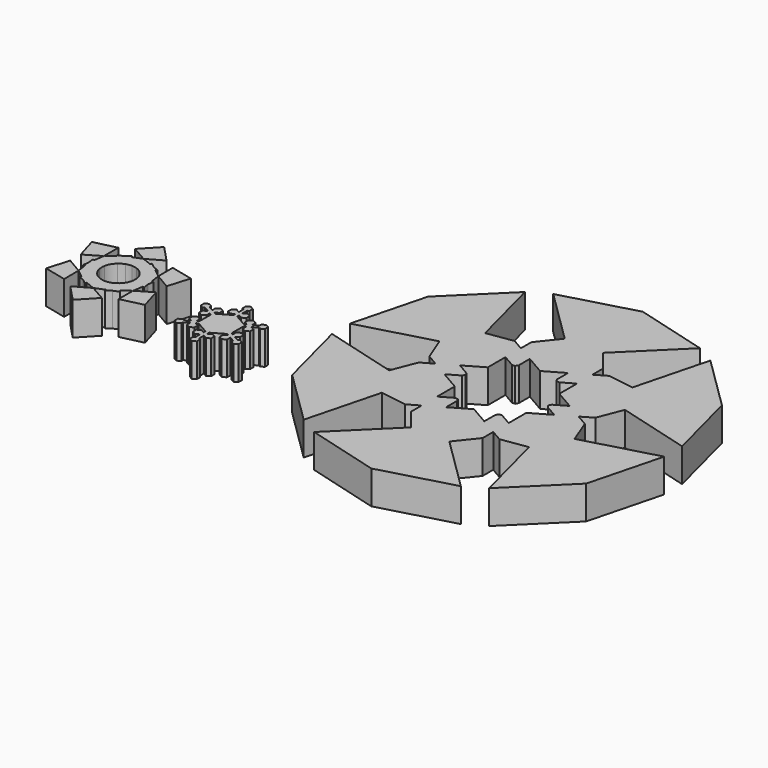
from build123d import *

# Parameters (mm, degrees)
F1_DEPTH = 600


with BuildPart() as f1:
    # F0 (on Top) → F1 (new body)
    with BuildSketch(Plane.XY):
        Polygon((558.4310335719, 102.5922032754), (525.4325270653, 83.5405066609), (525.4325270653, -101.0135561228), (558.4310335719, -120.0652527372), (558.4310335719, -15.2652638737), (558.4310335719, 60.4079625359), align=None)
        Polygon((492.4340205586, 102.5922032754), (525.4325270653, 83.5405066609), (558.4310335719, 102.5922032754), (670.5537929805, 167.3263086022), (525.4325270653, 251.1121105435), (380.3112611501, 167.3263086022), align=None)
        Polygon((525.4325270653, -101.0135561228), (525.4325270653, 83.5405066609), (492.4340205586, 102.5922032754), (492.4340205586, 60.4079625359), (492.4340205586, -15.2652638737), (492.4340205586, -120.0652527372), align=None)
        Polygon((558.4310335719, -120.0652527372), (525.4325270653, -101.0135561228), (525.4325270653, -246.8340396881), (588.5746486451, -210.3789187968), (588.5746486451, -137.4686770141), align=None)
        Polygon((525.4325270653, -246.8340396881), (525.4325270653, -101.0135561228), (492.4340205586, -120.0652527372), (462.2904054854, -137.4686770141), (462.2904054854, -210.3789187968), align=None)
        Polygon((525.4325270653, 251.1121105435), (670.5537929805, 167.3263086022), (670.5537929805, 334.8979124848), (525.4325270653, 418.6837144261), align=None)
        Polygon((670.5537929805, 334.8979124848), (670.5537929805, 167.3263086022), (782.676552389, 232.060413929), (815.6750588957, 251.1121105435), (815.6750588957, 289.2155037724), (815.6750588957, 418.6837144261), align=None)
        Polygon((623.9659700289, 98.2445757406), (558.4310335719, 60.4079625359), (558.4310335719, -15.2652638737), (623.9659700289, -53.1018770785), (689.5009064859, -15.2652638737), (689.5009064859, 60.4079625359), align=None)
        Polygon((268.1885017415, 232.060413929), (380.3112611501, 167.3263086022), (380.3112611501, 334.8979124848), (235.1899952349, 418.6837144261), (235.1899952349, 289.2155037724), (235.1899952349, 251.1121105435), align=None)
        Polygon((380.3112611501, 334.8979124848), (380.3112611501, 167.3263086022), (525.4325270653, 251.1121105435), (525.4325270653, 418.6837144261), align=None)
        Polygon((492.4340205586, -15.2652638737), (492.4340205586, 60.4079625359), (426.8990841016, 98.2445757406), (361.3641476446, 60.4079625359), (361.3641476446, -15.2652638737), (426.8990841016, -53.1018770785), align=None)
        Polygon((525.4325270653, 418.6837144261), (670.5537929805, 334.8979124848), (815.6750588957, 418.6837144261), (670.5537929805, 502.4695163674), align=None)
        Polygon((815.6750588957, 251.1121105435), (782.676552389, 232.060413929), (819.2091765089, 210.9682935593), (884.7441129659, 173.1316803545), (975.503565638, 120.7316859227), (975.503565638, 158.8350791517), align=None)
        Polygon((235.1899952349, 418.6837144261), (380.3112611501, 334.8979124848), (525.4325270653, 418.6837144261), (380.3112611501, 502.4695163674), align=None)
        Polygon((231.6558776217, 210.9682935593), (268.1885017415, 232.060413929), (235.1899952349, 251.1121105435), (75.3614884925, 158.8350791517), (75.3614884925, 120.7316859227), (166.1209411647, 173.1316803545), align=None)
        Polygon((525.4325270653, 586.2553183087), (525.4325270653, 418.6837144261), (670.5537929805, 502.4695163674), (670.5537929805, 670.0411202499), align=None)
        Polygon((380.3112611501, 502.4695163674), (525.4325270653, 418.6837144261), (525.4325270653, 586.2553183087), (380.3112611501, 670.0411202499), align=None)
        Polygon((670.5537929805, 502.4695163674), (815.6750588957, 418.6837144261), (815.6750588957, 548.1519250797), (815.6750588957, 586.2553183087), (782.676552389, 605.3070149231), (670.5537929805, 670.0411202499), align=None)
        Polygon((815.6750588957, 289.2155037724), (815.6750588957, 251.1121105435), (975.503565638, 158.8350791517), (1008.5020721447, 177.8867757661), (917.7426194725, 230.2867701979), (852.2076830155, 268.1233834027), align=None)
        Polygon((884.7441129659, 173.1316803545), (819.2091765089, 210.9682935593), (753.6742400518, 173.1316803545), (753.6742400518, 97.4584539449), (819.2091765089, 59.6218407402), (884.7441129659, 97.4584539449), align=None)
        Polygon((235.1899952349, 548.1519250797), (235.1899952349, 418.6837144261), (380.3112611501, 502.4695163674), (380.3112611501, 670.0411202499), (268.1885017415, 605.3070149231), (235.1899952349, 586.2553183087), align=None)
        Polygon((297.1908140787, 173.1316803545), (231.6558776217, 210.9682935593), (166.1209411647, 173.1316803545), (166.1209411647, 97.4584539449), (231.6558776217, 59.6218407402), (297.1908140787, 97.4584539449), align=None)
        Polygon((75.3614884925, 158.8350791517), (235.1899952349, 251.1121105435), (235.1899952349, 289.2155037724), (198.6573711151, 268.1233834027), (133.122434658, 230.2867701979), (42.3629819859, 177.8867757661), align=None)
        Polygon((380.3112611501, 670.0411202499), (525.4325270653, 586.2553183087), (670.5537929805, 670.0411202499), (558.4310335719, 734.7752255768), (525.4325270653, 753.8269221912), (492.4340205586, 734.7752255768), align=None)
        Polygon((815.6750588957, 586.2553183087), (815.6750588957, 548.1519250797), (852.2076830155, 569.2440454495), (917.7426194725, 607.0806586543), (1008.5020721447, 659.480653086), (975.503565638, 678.5323497005), align=None)
        Polygon((1008.5020721447, 177.8867757661), (975.503565638, 158.8350791517), (1101.7878087977, 85.924837369), (1101.7878087977, 158.8350791517), (1038.6456872179, 195.290200043), align=None)
        Polygon((1101.7878087977, 85.924837369), (975.503565638, 158.8350791517), (975.503565638, 120.7316859227), (975.503565638, 85.924837369), (1038.6456872179, 49.4697164777), align=None)
        Polygon((198.6573711151, 569.2440454495), (235.1899952349, 548.1519250797), (235.1899952349, 586.2553183087), (75.3614884925, 678.5323497005), (42.3629819859, 659.480653086), (133.122434658, 607.0806586543), align=None)
        Polygon((75.3614884925, 120.7316859227), (75.3614884925, 158.8350791517), (-50.9227546672, 85.924837369), (12.2193669127, 49.4697164777), (75.3614884925, 85.924837369), align=None)
        Polygon((-50.9227546672, 85.924837369), (75.3614884925, 158.8350791517), (42.3629819859, 177.8867757661), (12.2193669127, 195.290200043), (-50.9227546672, 158.8350791517), align=None)
        Polygon((852.2076830155, 343.7966098122), (852.2076830155, 268.1233834027), (917.7426194725, 230.2867701979), (983.2775559295, 268.1233834027), (983.2775559295, 343.7966098122), (917.7426194725, 381.633223017), align=None)
        Polygon((782.676552389, 605.3070149231), (815.6750588957, 586.2553183087), (975.503565638, 678.5323497005), (975.503565638, 716.6357429294), (884.7441129659, 664.2357484977), (819.2091765089, 626.3991352929), align=None)
        Polygon((917.7426194725, 607.0806586543), (852.2076830155, 569.2440454495), (852.2076830155, 493.5708190399), (917.7426194725, 455.7342058352), (983.2775559295, 493.5708190399), (983.2775559295, 569.2440454495), align=None)
        Polygon((198.6573711151, 493.5708190399), (198.6573711151, 569.2440454495), (133.122434658, 607.0806586543), (67.587498201, 569.2440454495), (67.587498201, 493.5708190399), (133.122434658, 455.7342058352), align=None)
        Polygon((75.3614884925, 678.5323497005), (235.1899952349, 586.2553183087), (268.1885017415, 605.3070149231), (231.6558776217, 626.3991352929), (166.1209411647, 664.2357484977), (75.3614884925, 716.6357429294), align=None)
        Polygon((133.122434658, 230.2867701979), (198.6573711151, 268.1233834027), (198.6573711151, 343.7966098122), (133.122434658, 381.633223017), (67.587498201, 343.7966098122), (67.587498201, 268.1233834027), align=None)
        Polygon((525.4325270653, 753.8269221912), (558.4310335719, 734.7752255768), (558.4310335719, 776.9594663163), (558.4310335719, 852.6326927259), (558.4310335719, 957.4326815894), (525.4325270653, 938.3809849749), align=None)
        Polygon((492.4340205586, 776.9594663163), (492.4340205586, 734.7752255768), (525.4325270653, 753.8269221912), (525.4325270653, 938.3809849749), (492.4340205586, 957.4326815894), (492.4340205586, 852.6326927259), align=None)
        Polygon((975.503565638, 716.6357429294), (975.503565638, 678.5323497005), (1101.7878087977, 751.4425914832), (1038.6456872179, 787.8977123745), (975.503565638, 751.4425914832), align=None)
        Polygon((1101.7878087977, 751.4425914832), (975.503565638, 678.5323497005), (1008.5020721447, 659.480653086), (1038.6456872179, 642.0772288092), (1101.7878087977, 678.5323497005), align=None)
        Polygon((42.3629819859, 659.480653086), (75.3614884925, 678.5323497005), (-50.9227546672, 751.4425914832), (-50.9227546672, 678.5323497005), (12.2193669127, 642.0772288092), align=None)
        Polygon((-50.9227546672, 751.4425914832), (75.3614884925, 678.5323497005), (75.3614884925, 716.6357429294), (75.3614884925, 751.4425914832), (12.2193669127, 787.8977123745), align=None)
        Polygon((753.6742400518, 664.2357484977), (819.2091765089, 626.3991352929), (884.7441129659, 664.2357484977), (884.7441129659, 739.9089749072), (819.2091765089, 777.745588112), (753.6742400518, 739.9089749072), align=None)
        Polygon((558.4310335719, 852.6326927259), (558.4310335719, 776.9594663163), (623.9659700289, 739.1228531115), (689.5009064859, 776.9594663163), (689.5009064859, 852.6326927259), (623.9659700289, 890.4693059306), align=None)
        Polygon((426.8990841016, 739.1228531115), (492.4340205586, 776.9594663163), (492.4340205586, 852.6326927259), (426.8990841016, 890.4693059306), (361.3641476446, 852.6326927259), (361.3641476446, 776.9594663163), align=None)
        Polygon((166.1209411647, 664.2357484977), (231.6558776217, 626.3991352929), (297.1908140787, 664.2357484977), (297.1908140787, 739.9089749072), (231.6558776217, 777.745588112), (166.1209411647, 739.9089749072), align=None)
        Polygon((492.4340205586, 957.4326815894), (525.4325270653, 938.3809849749), (525.4325270653, 1084.2014685403), (462.2904054854, 1047.7463476489), (462.2904054854, 974.8361058663), align=None)
        Polygon((525.4325270653, 1084.2014685403), (525.4325270653, 938.3809849749), (558.4310335719, 957.4326815894), (588.5746486451, 974.8361058663), (588.5746486451, 1047.7463476489), align=None)
    extrude(amount=F1_DEPTH)


with BuildPart() as f1b:
    # F0 (on Top) → F1, piece 2 (new body)
    with BuildSketch(Plane.XY):
        Polygon((-1846.1260795593, 1442.9428577423), (-1562.5789165497, 1281.4545631409), (-1562.5789165497, 1742.8497076035), align=None)
        Polygon((-1562.5789165497, 1742.8497076035), (-1562.5789165497, 1281.4545631409), (-1279.03175354, 1442.9428577423), align=None)
    extrude(amount=F1_DEPTH)


with BuildPart() as f1c:
    # F0 (on Top) → F1, piece 3 (new body)
    with BuildSketch(Plane.XY):
        with BuildLine():
            Line((-1390.323435679, 1213.1962518013), (-1562.5789165497, 1281.4545631409))
            Line((-1562.5789165497, 1281.4545631409), (-1562.5789165497, 1014.5045564725))
            ThreePointArc((-1562.5789165497, 1014.5045564725), (-1512.9277913103, 1010.3660017243), (-1464.6469842019, 998.0645571795))
            Line((-1464.6469842018, 998.0645571795), (-1390.323435679, 1213.1962518013))
        make_face()
        with BuildLine():
            Line((-1562.5789165497, 1014.5045564725), (-1562.5789165497, 1281.4545631409))
            Line((-1562.5789165497, 1281.4545631409), (-1734.8343974203, 1213.1962518013))
            Line((-1734.8343974203, 1213.1962518013), (-1660.5108488975, 998.0645571795))
            ThreePointArc((-1660.5108488975, 998.0645571795), (-1612.230041789, 1010.3660017243), (-1562.5789165497, 1014.5045564725))
        make_face()
        with BuildLine():
            Line((-1660.5108488975, 998.0645571795), (-1734.8343974203, 1213.1962518013))
            Line((-1734.8343974203, 1213.1962518013), (-1828.9198621426, 1175.9137519292))
            Line((-1828.9198621426, 1175.9137519292), (-1908.2501865095, 1113.0745992889))
            Line((-1908.2501865095, 1113.0745992889), (-1759.1024480692, 941.1426708578))
            ThreePointArc((-1759.1024480692, 941.1426708578), (-1712.5323437727, 974.3246567458), (-1660.5108488975, 998.0645571795))
        make_face()
        Polygon((-1828.9198621426, 1175.9137519292), (-1734.8343974203, 1213.1962518013), (-1744.9369300128, 1242.4383291749), align=None)
        Polygon((-1380.2209030866, 1242.4383291749), (-1390.323435679, 1213.1962518013), (-1296.2379709568, 1175.9137519292), align=None)
        with BuildLine():
            Line((-1296.2379709568, 1175.9137519292), (-1390.323435679, 1213.1962518013))
            Line((-1390.323435679, 1213.1962518013), (-1464.6469842018, 998.0645571795))
            ThreePointArc((-1464.6469842019, 998.0645571795), (-1412.6254893266, 974.3246567458), (-1366.0553850301, 941.1426708578))
            Line((-1366.0553850301, 941.1426708578), (-1216.9076465898, 1113.0745992889))
            Line((-1216.9076465898, 1113.0745992889), (-1296.2379709568, 1175.9137519292))
        make_face()
        Polygon((-1908.2501865095, 1113.0745992889), (-1828.9198621426, 1175.9137519292), (-1928.5233020782, 1136.4446878433), align=None)
        Polygon((-1196.6345310211, 1136.4446878433), (-1296.2379709568, 1175.9137519292), (-1216.9076465898, 1113.0745992889), align=None)
        with BuildLine():
            ThreePointArc((-1822.3058712691, 864.5511292494), (-1793.8962151026, 905.4809876591), (-1759.1024480692, 941.1426708578))
            Line((-1759.1024480692, 941.1426708578), (-1908.2501865095, 1113.0745992889))
            Line((-1908.2501865095, 1113.0745992889), (-2053.4913585843, 998.0261325836))
            Line((-2053.4913585843, 998.0261325836), (-1822.3058712691, 864.5511292494))
        make_face()
        with BuildLine():
            Line((-1216.9076465898, 1113.0745992889), (-1366.0553850301, 941.1426708578))
            ThreePointArc((-1366.0553850301, 941.1426708578), (-1331.2616179968, 905.4809876591), (-1302.8519618303, 864.5511292494))
            Line((-1302.8519618303, 864.5511292494), (-1071.666474515, 998.0261325836))
            Line((-1071.666474515, 998.0261325836), (-1216.9076465898, 1113.0745992889))
        make_face()
        with BuildLine():
            ThreePointArc((-1822.3058712691, 564.6442748033), (-1843.5473403419, 609.7126879611), (-1857.0343804171, 657.6758157048))
            Line((-1857.0343804171, 657.6758157048), (-2080.5056673802, 614.476049514))
            Line((-2080.5056673802, 614.476049514), (-2053.4913585843, 431.1692714691))
            Line((-2053.4913585843, 431.1692714691), (-1822.3058712691, 564.6442748033))
        make_face()
        with BuildLine():
            Line((-2080.5056673802, 614.476049514), (-1857.0343804171, 657.6758157048))
            ThreePointArc((-1857.0343804171, 657.6758157048), (-1862.4857709958, 714.5977020264), (-1857.0343804171, 771.519588348))
            Line((-1857.0343804171, 771.519588348), (-2080.5056673802, 814.7193545387))
            Line((-2080.5056673802, 814.7193545387), (-2095.2608077354, 714.5977020264))
            Line((-2095.2608077354, 714.5977020264), (-2080.5056673802, 614.476049514))
        make_face()
        with BuildLine():
            ThreePointArc((-1857.0343804171, 771.519588348), (-1843.5473403419, 819.4827160916), (-1822.3058712691, 864.5511292494))
            Line((-1822.3058712691, 864.5511292494), (-2053.4913585843, 998.0261325836))
            Line((-2053.4913585843, 998.0261325836), (-2080.5056673802, 814.7193545387))
            Line((-2080.5056673802, 814.7193545387), (-1857.0343804171, 771.519588348))
        make_face()
        with BuildLine():
            Line((-1734.8343974203, 215.9991522514), (-1660.5108488975, 431.1308468733))
            ThreePointArc((-1660.5108488975, 431.1308468733), (-1712.5323437727, 454.8707473069), (-1759.1024480692, 488.0527331949))
            Line((-1759.1024480692, 488.0527331949), (-1908.2501865095, 316.1208047638))
            Line((-1908.2501865095, 316.1208047638), (-1828.9198621426, 253.2816521236))
            Line((-1828.9198621426, 253.2816521236), (-1734.8343974203, 215.9991522514))
        make_face()
        with BuildLine():
            ThreePointArc((-1562.5789165497, 414.6908475802), (-1612.230041789, 418.8294023284), (-1660.5108488975, 431.1308468733))
            Line((-1660.5108488975, 431.1308468733), (-1734.8343974203, 215.9991522514))
            Line((-1734.8343974203, 215.9991522514), (-1562.5789165497, 147.7408409119))
            Line((-1562.5789165497, 147.7408409119), (-1562.5789165497, 414.6908475802))
        make_face()
        with BuildLine():
            ThreePointArc((-1759.1024480692, 488.0527331949), (-1793.8962151026, 523.7144163936), (-1822.3058712691, 564.6442748033))
            Line((-1822.3058712691, 564.6442748033), (-2053.4913585843, 431.1692714691))
            Line((-2053.4913585843, 431.1692714691), (-1908.2501865095, 316.1208047638))
            Line((-1908.2501865095, 316.1208047638), (-1759.1024480692, 488.0527331949))
        make_face()
        with BuildLine():
            Line((-1216.9076465898, 316.1208047638), (-1366.0553850301, 488.0527331949))
            ThreePointArc((-1366.0553850301, 488.0527331949), (-1412.6254893266, 454.8707473069), (-1464.6469842019, 431.1308468733))
            Line((-1464.6469842018, 431.1308468733), (-1390.323435679, 215.9991522514))
            Line((-1390.323435679, 215.9991522514), (-1296.2379709568, 253.2816521236))
            Line((-1296.2379709568, 253.2816521236), (-1216.9076465898, 316.1208047638))
        make_face()
        with BuildLine():
            ThreePointArc((-1302.8519618303, 564.6442748033), (-1331.2616179968, 523.7144163936), (-1366.0553850301, 488.0527331949))
            Line((-1366.0553850301, 488.0527331949), (-1216.9076465898, 316.1208047638))
            Line((-1216.9076465898, 316.1208047638), (-1071.666474515, 431.1692714691))
            Line((-1071.666474515, 431.1692714691), (-1302.8519618303, 564.6442748033))
        make_face()
        with BuildLine():
            ThreePointArc((-1464.6469842019, 431.1308468733), (-1512.9277913103, 418.8294023284), (-1562.5789165497, 414.6908475802))
            Line((-1562.5789165497, 414.6908475802), (-1562.5789165497, 147.7408409119))
            Line((-1562.5789165497, 147.7408409119), (-1390.323435679, 215.9991522514))
            Line((-1390.323435679, 215.9991522514), (-1464.6469842018, 431.1308468733))
        make_face()
        with BuildLine():
            Line((-1044.6521657192, 814.7193545387), (-1268.1234526823, 771.519588348))
            ThreePointArc((-1268.1234526823, 771.519588348), (-1264.0380204511, 743.1888667528), (-1262.6720621036, 714.5977020264))
            ThreePointArc((-1262.6720621036, 714.5977020264), (-1264.0380204511, 686.0065373), (-1268.1234526823, 657.6758157048))
            Line((-1268.1234526823, 657.6758157048), (-1044.6521657192, 614.476049514))
            Line((-1044.6521657192, 614.476049514), (-1029.8970253639, 714.5977020264))
            Line((-1029.8970253639, 714.5977020264), (-1044.6521657192, 814.7193545387))
        make_face()
        with BuildLine():
            ThreePointArc((-1302.8519618303, 864.5511292494), (-1281.6104927574, 819.4827160916), (-1268.1234526823, 771.519588348))
            Line((-1268.1234526823, 771.519588348), (-1044.6521657192, 814.7193545387))
            Line((-1044.6521657192, 814.7193545387), (-1071.666474515, 998.0261325836))
            Line((-1071.666474515, 998.0261325836), (-1302.8519618303, 864.5511292494))
        make_face()
        with BuildLine():
            ThreePointArc((-1268.1234526823, 657.6758157048), (-1281.6104927574, 609.7126879611), (-1302.8519618303, 564.6442748033))
            Line((-1302.8519618303, 564.6442748033), (-1071.666474515, 431.1692714691))
            Line((-1071.666474515, 431.1692714691), (-1044.6521657192, 614.476049514))
            Line((-1044.6521657192, 614.476049514), (-1268.1234526823, 657.6758157048))
        make_face()
        Polygon((-2110.8813155413, 608.6040606948), (-2080.5056673802, 614.476049514), (-2095.2608077354, 714.5977020264), align=None)
        Polygon((-1744.9369300128, 186.7570748779), (-1734.8343974203, 215.9991522514), (-1828.9198621426, 253.2816521236), align=None)
        Polygon((-2095.2608077354, 714.5977020264), (-2080.5056673802, 814.7193545387), (-2110.8813155413, 820.5913433579), align=None)
        Polygon((-1196.6345310211, 292.7507162094), (-1216.9076465898, 316.1208047638), (-1296.2379709568, 253.2816521236), align=None)
        Polygon((-1828.9198621426, 253.2816521236), (-1908.2501865095, 316.1208047638), (-1928.5233020782, 292.7507162094), align=None)
        Polygon((-1014.276517558, 820.5913433579), (-1044.6521657192, 814.7193545387), (-1029.8970253639, 714.5977020264), align=None)
        Polygon((-1296.2379709568, 253.2816521236), (-1390.323435679, 215.9991522514), (-1380.2209030866, 186.7570748779), align=None)
        Polygon((-1029.8970253639, 714.5977020264), (-1044.6521657192, 614.476049514), (-1014.276517558, 608.6040606948), align=None)
    extrude(amount=F1_DEPTH)


with BuildPart() as f1d:
    # F0 (on Top) → F1, piece 4 (new body)
    with BuildSketch(Plane.XY):
        Polygon((-1073.5870904812, 1324.3293262217), (-1071.666474515, 998.0261325836), (-672.0865582276, 1228.7237048149), align=None)
        Polygon((-672.0865582276, 1228.7237048149), (-1071.666474515, 998.0261325836), (-790.0399274715, 833.211233547), align=None)
    extrude(amount=F1_DEPTH)


with BuildPart() as f1e:
    # F0 (on Top) → F1, piece 5 (new body)
    with BuildSketch(Plane.XY):
        Polygon((-790.0399274715, 595.9841705058), (-1071.666474515, 431.1692714691), (-672.0865582276, 200.4716992378), align=None)
        Polygon((-672.0865582276, 200.4716992378), (-1071.666474515, 431.1692714691), (-1073.5870904812, 104.866077831), align=None)
    extrude(amount=F1_DEPTH)


with BuildPart() as f1f:
    # F0 (on Top) → F1, piece 6 (new body)
    with BuildSketch(Plane.XY):
        Polygon((-1279.03175354, -13.7474536896), (-1562.5789165497, 147.7408409119), (-1562.5789165497, -313.6543035507), align=None)
        Polygon((-1562.5789165497, -313.6543035507), (-1562.5789165497, 147.7408409119), (-1846.1260795593, -13.7474536896), align=None)
    extrude(amount=F1_DEPTH)


with BuildPart() as f1g:
    # F0 (on Top) → F1, piece 7 (new body)
    with BuildSketch(Plane.XY):
        Polygon((-2051.5707426182, 104.866077831), (-2053.4913585843, 431.1692714691), (-2453.0712748717, 200.4716992378), align=None)
        Polygon((-2453.0712748717, 200.4716992378), (-2053.4913585843, 431.1692714691), (-2335.1179056278, 595.9841705058), align=None)
    extrude(amount=F1_DEPTH)


with BuildPart() as f1h:
    # F0 (on Top) → F1, piece 8 (new body)
    with BuildSketch(Plane.XY):
        Polygon((-2335.1179056278, 833.211233547), (-2053.4913585843, 998.0261325836), (-2453.0712748717, 1228.7237048149), align=None)
        Polygon((-2453.0712748717, 1228.7237048149), (-2053.4913585843, 998.0261325836), (-2051.5707426182, 1324.3293262217), align=None)
    extrude(amount=F1_DEPTH)


with BuildPart() as f1i:
    # F0 (on Top) → F1, piece 9 (new body)
    with BuildSketch(Plane.XY):
        Polygon((5155.5130766822, 473.52871428), (4919.8455810547, 609.5914063198), (4919.8455810547, -1700.9837434601), (6240.0842729383, -1336.0754821968), (5263.9451026917, -375.1693665981), (5563.7011528015, 0), (5563.7011528015, 237.8612186525), (5263.1500457747, 411.3844811997), align=None)
        Polygon((4919.8455810547, -1700.9837434601), (4919.8455810547, 609.5914063198), (4684.1780854272, 473.52871428), (4575.7460594177, 410.9254548747), (4575.7460594177, -375.1693665981), align=None)
        Polygon((7564.7179298639, -173.9659809029), (5563.7011528015, 981.3215939871), (5563.7011528015, 709.1962099075), (5563.7011528015, 583.9896910968), (6244.4792379804, 190.9422803604), align=None)
        Polygon((5799.368648429, 1117.3842860269), (5563.7011528015, 981.3215939871), (7564.7179298639, -173.9659809029), (7908.8174515009, 1151.8483959591), (6588.5787596173, 786.9401346958), (6413.5505824766, 1234.1211723281), (6207.5567245483, 1353.0517816544), (5907.0056175215, 1179.5285191072), align=None)
        Polygon((7564.7179298639, 2880.0695442116), (5563.7011528015, 1724.7819693216), (5799.368648429, 1588.7192772818), (5907.8006744385, 1526.1160178765), (6588.5787596173, 1919.1634286129), align=None)
        Polygon((5563.7011528015, 1996.9073534012), (5563.7011528015, 1724.7819693216), (7564.7179298639, 2880.0695442116), (6588.5787596173, 3840.9756598102), (6244.4792379804, 2515.1612829483), (5769.6950107297, 2587.1729539824), (5563.7011528015, 2468.2423446562), (5563.7011528015, 2121.1958195618), align=None)
        Polygon((4919.8455810547, 4407.0873067688), (4919.8455810547, 2096.5121569889), (5155.5130766822, 2232.5748490287), (5263.9451026917, 2295.178108434), (5263.9451026917, 3081.2729299068), align=None)
        Polygon((4684.1780854272, 2232.5748490287), (4919.8455810547, 2096.5121569889), (4919.8455810547, 4407.0873067688), (3599.6068891711, 4042.1790455055), (4575.7460594177, 3081.2729299068), (4275.9900093079, 2706.1035633087), (4275.9900093079, 2468.2423446562), (4576.5411163347, 2294.719082109), align=None)
        Polygon((2274.9732322454, 2880.0695442116), (4275.9900093079, 1724.7819693216), (4275.9900093079, 1996.9073534012), (4275.9900093079, 2122.1138722119), (3595.211924129, 2515.1612829483), align=None)
        Polygon((4040.3225136804, 1588.7192772819), (4275.9900093079, 1724.7819693216), (2274.9732322454, 2880.0695442116), (1930.8737106085, 1554.2551673496), (3251.112402492, 1919.1634286129), (3426.1405796328, 1471.9823909806), (3632.134437561, 1353.0517816544), (3932.6855445878, 1526.5750442015), align=None)
        Polygon((2274.9732322454, -173.9659809029), (4275.9900093079, 981.3215939871), (4040.3225136804, 1117.3842860269), (3931.8904876709, 1179.9875454322), (3251.112402492, 786.9401346958), align=None)
        Polygon((4275.9900093079, 709.1962099075), (4275.9900093079, 981.3215939871), (2274.9732322454, -173.9659809029), (3251.112402492, -1134.8720965015), (3595.211924129, 190.9422803604), (4069.9961513796, 118.9306093263), (4275.9900093079, 237.8612186525), (4275.9900093079, 584.9077437469), align=None)
        Polygon((3599.6068891711, -1336.0754821968), (4919.8455810547, -1700.9837434601), (4575.7460594177, -375.1693665981), align=None)
        Polygon((6588.5787596173, -1134.8720965015), (7564.7179298639, -173.9659809029), (6244.4792379804, 190.9422803604), align=None)
        Polygon((7908.8174515009, 1554.2551673496), (7564.7179298639, 2880.0695442116), (6588.5787596173, 1919.1634286129), align=None)
        Polygon((6240.0842729383, 4042.1790455055), (4919.8455810547, 4407.0873067688), (5263.9451026917, 3081.2729299068), align=None)
        Polygon((3251.112402492, 3840.9756598102), (2274.9732322454, 2880.0695442116), (3595.211924129, 2515.1612829483), align=None)
        Polygon((1930.8737106085, 1151.8483959591), (2274.9732322454, -173.9659809029), (3251.112402492, 786.9401346958), align=None)
        Polygon((4275.9900093079, 0), (4575.7460594177, -375.1693665981), (4575.7460594177, 410.9254548747), (4275.9900093079, 237.8612186525), align=None)
        Polygon((5263.1500457747, 659.961413521), (5263.1500457747, 411.3844811997), (5563.7011528015, 237.8612186525), (5563.7011528015, 583.9896910968), (5346.8371007826, 709.1962099075), (5291.575768722, 709.1962099075), align=None)
        Polygon((4575.7460594177, 410.9254548747), (4575.7460594177, 661.3384924961), (4548.1153933874, 709.1962099075), (4491.2639474929, 709.1962099075), (4275.9900093079, 584.9077437469), (4275.9900093079, 237.8612186525), align=None)
        Polygon((6244.4792379804, 190.9422803604), (5563.7011528015, 583.9896910968), (5563.7011528015, 237.8612186525), (5769.6950107297, 118.9306093263), align=None)
        Polygon((5691.7316793365, 1303.8169852679), (5907.0056175215, 1179.5285191072), (6207.5567245483, 1353.0517816544), (5907.8006744385, 1526.1160178765), (5690.9366224195, 1400.9094990658), (5663.3059563892, 1353.0517816544), align=None)
        Polygon((5291.575768722, 1996.9073534012), (5348.4272146164, 1996.9073534012), (5563.7011528015, 2121.1958195618), (5563.7011528015, 2468.2423446562), (5263.9451026917, 2295.178108434), (5263.9451026917, 2044.7650708126), align=None)
        Polygon((6588.5787596173, 1919.1634286129), (5907.8006744385, 1526.1160178765), (6207.5567245483, 1353.0517816544), (6413.5505824766, 1471.9823909806), align=None)
        Polygon((4492.8540613268, 1996.9073534012), (4548.1153933874, 1996.9073534012), (4576.5411163347, 2046.1421497877), (4576.5411163347, 2294.719082109), (4275.9900093079, 2468.2423446562), (4275.9900093079, 2122.1138722119), align=None)
        Polygon((5263.9451026917, 3081.2729299068), (5263.9451026917, 2295.178108434), (5563.7011528015, 2468.2423446562), (5563.7011528015, 2706.1035633087), align=None)
        Polygon((4148.7545396898, 1305.1940642429), (4176.3852057201, 1353.0517816544), (4147.9594827729, 1402.2865780409), (3932.6855445878, 1526.5750442015), (3632.134437561, 1353.0517816544), (3931.8904876709, 1179.9875454322), align=None)
        Polygon((3595.211924129, 2515.1612829483), (4275.9900093079, 2122.1138722119), (4275.9900093079, 2468.2423446562), (4069.9961513796, 2587.1729539824), align=None)
        Polygon((3251.112402492, 786.9401346958), (3931.8904876709, 1179.9875454322), (3632.134437561, 1353.0517816544), (3426.1405796328, 1234.1211723281), align=None)
    extrude(amount=F1_DEPTH)


solid = Compound([f1.part, f1b.part, f1c.part, f1d.part, f1e.part, f1f.part, f1g.part, f1h.part, f1i.part])
